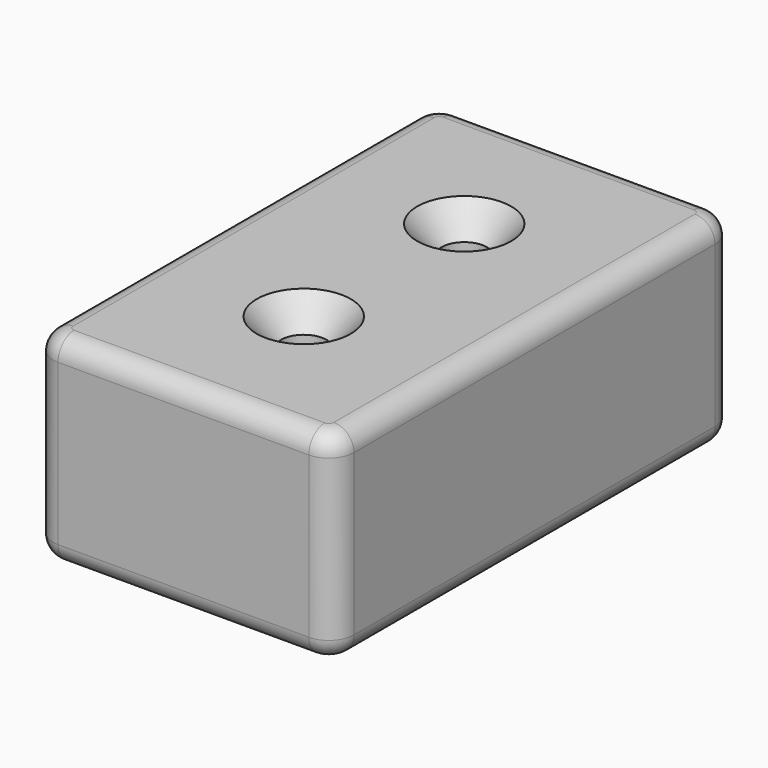
from build123d import *

# Parameters (mm, degrees)
F0_W           = 76.2
F0_H           = 127
F1_DEPTH       = 25.4
F2_R           = 6.35
F4_D           = 11.50874
F4_CSINK_D     = 23.8252
F4_CSINK_ANGLE = 82
F5_R           = 5.08


with BuildPart() as f1:
    # F0 (on Top) → F1 (new body, symmetric)
    with BuildSketch(Plane.XY):
        Rectangle(F0_W, F0_H)
    extrude(amount=F1_DEPTH, both=True)

    # F2
    f2_edges = [f1.edges().sort_by_distance(p)[0] for p in [
        (38.1, -63.5, 0),
        (38.1, 63.5, 0),
        (-38.1, -63.5, 0),
        (-38.1, 63.5, 0),
    ]]
    fillet(f2_edges, radius=F2_R)

    # F4 (through all)
    with Locations(Plane.XY.offset(25.4)):
        with Locations((0, -25.4), (0, 25.4)):
            CounterSinkHole(F4_D / 2, F4_CSINK_D / 2, counter_sink_angle=F4_CSINK_ANGLE)

    # F5
    f5_edges = [f1.edges().sort_by_distance(p)[0] for p in [
        (38.1, 0, 25.4),
        (38.1, 0, -25.4),
    ]]
    fillet(f5_edges, radius=F5_R)


solid = f1.part
